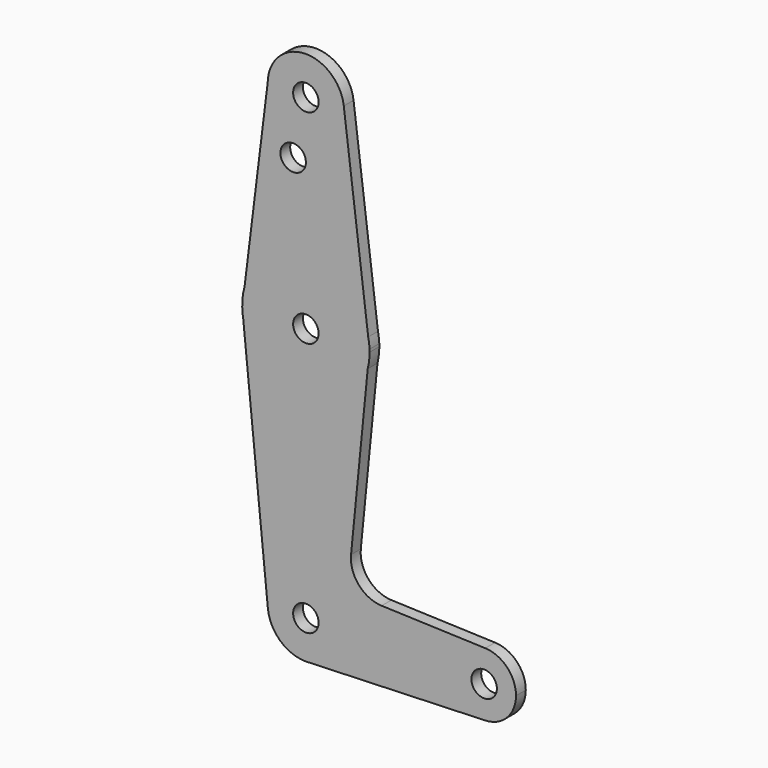
from build123d import *

# Parameters (mm, degrees)
F0_R     = 3.175
F1_DEPTH = 3.048


with BuildPart() as f1:
    # F0 (on Front) → F1 (new body)
    with BuildSketch(Plane.XZ):
        with BuildLine():
            ThreePointArc((-9.5242230545, 69.5799313828), (-0.0608292928, 59.9334695165), (9.525, 69.4582752781))
            ThreePointArc((9.525, 69.4582752781), (9.5066199095, 70.0497166507), (9.4515505728, 70.638875452))
            ThreePointArc((9.4515505728, 70.638875452), (-0.5307173992, 78.9684784327), (-9.5242230545, 69.5799313828))
        make_face()
        with Locations((0, 69.4582752781)):
            Circle(F0_R, mode=Mode.SUBTRACT)
        with BuildLine():
            ThreePointArc((9.4515505728, 70.638875452), (9.5066199095, 70.0497166507), (9.525, 69.4582752781))
            ThreePointArc((9.525, 69.4582752781), (-0.0608292928, 59.9334695165), (-9.5242230545, 69.5799313828))
            Line((-9.5242230545, 69.5799313828), (-15.2889743991, 22.9317851732))
            ThreePointArc((-15.2889743991, 22.9317851732), (0.5253452811, 34.5245803721), (15.5381761666, 21.9110750593))
            Line((15.5381761666, 21.9110750593), (9.4515505728, 70.638875452))
        make_face()
        with Locations((-3.175, 55.1834752781)):
            Circle(F0_R, mode=Mode.SUBTRACT)
        with BuildLine():
            Line((15.8608855037, 19.3275555179), (15.5381761666, 21.9110750593))
            ThreePointArc((15.5381761666, 21.9110750593), (0.5253452811, 34.5245803721), (-15.2889743991, 22.9317851732))
            Line((-15.2889743991, 22.9317851732), (-15.8693639685, 18.2352950952))
            Line((-15.8693639685, 18.2352950952), (-15.6397916735, 15.9356769951))
            ThreePointArc((-15.6397916735, 15.9356769951), (-0.528965614, 2.7920904696), (15.4237261455, 14.9000447385))
            Line((15.4237261455, 14.9000447385), (15.8608855037, 19.3275555179))
        make_face()
        with Locations((0, 18.6582752781)):
            Circle(F0_R, mode=Mode.SUBTRACT)
        with BuildLine():
            ThreePointArc((15.8608855037, 19.3275555179), (15.7525842879, 20.6259422346), (15.5381761666, 21.9110750593))
            Line((15.5381761666, 21.9110750593), (15.8608855037, 19.3275555179))
        make_face()
        with BuildLine():
            Line((-15.8693639685, 18.2352950952), (-15.2889743991, 22.9317851732))
            ThreePointArc((-15.2889743991, 22.9317851732), (-15.7551504982, 20.6052878049), (-15.8693639685, 18.2352950952))
        make_face()
        with BuildLine():
            ThreePointArc((15.875, 18.6582752781), (15.8714709837, 18.9929898051), (15.8608855037, 19.3275555179))
            Line((15.8608855037, 19.3275555179), (15.4237261455, 14.9000447385))
            ThreePointArc((15.4237261455, 14.9000447385), (15.7617777798, 16.7656616831), (15.875, 18.6582752781))
        make_face()
        with BuildLine():
            Line((-15.6397916735, 15.9356769951), (-15.8693639685, 18.2352950952))
            ThreePointArc((-15.8693639685, 18.2352950952), (-15.796480088, 17.081302916), (-15.6397916735, 15.9356769951))
        make_face()
        with BuildLine():
            Line((11.2606845245, -27.2628674969), (15.4237261455, 14.9000447385))
            ThreePointArc((15.4237261455, 14.9000447385), (-0.528965614, 2.7920904696), (-15.6397916735, 15.9356769951))
            Line((-15.6397916735, 15.9356769951), (-9.4778880528, -45.7879081391))
            ThreePointArc((-9.4778880528, -45.7879081391), (-0.4736777899, -35.3285099996), (9.525, -44.8417247219))
            ThreePointArc((9.525, -44.8417247219), (6.9705567315, -51.3330238101), (0.6773435479, -54.3426105078))
            Line((0.6773435479, -54.3426105078), (44.7324052746, -52.7741993364))
            ThreePointArc((44.7324052746, -52.7741993364), (36.5125, -44.8417247219), (44.7324052746, -36.9092501073))
            Line((44.7324052746, -36.9092501073), (18.8895552025, -35.9892147433))
            ThreePointArc((18.8895552025, -35.9892147433), (13.1870059413, -33.2766947707), (11.2606845245, -27.2628674969))
        make_face()
        with BuildLine():
            ThreePointArc((9.525, -44.8417247219), (-0.4736777899, -35.3285099996), (-9.4778880528, -45.7879081391))
            ThreePointArc((-9.4778880528, -45.7879081391), (-6.3919178636, -51.9035241402), (0, -54.3667247219))
            Line((0, -54.3667247219), (0.6773435479, -54.3426105078))
            ThreePointArc((0.6773435479, -54.3426105078), (6.9705567315, -51.3330238101), (9.525, -44.8417247219))
        make_face()
        with Locations((0, -44.8417247219)):
            Circle(F0_R, mode=Mode.SUBTRACT)
        with BuildLine():
            Line((0.6773435479, -54.3426105078), (0, -54.3667247219))
            ThreePointArc((0, -54.3667247219), (0.3388863295, -54.3606942594), (0.6773435479, -54.3426105078))
        make_face()
        with BuildLine():
            ThreePointArc((52.3875, -44.8417247219), (50.1616327839, -39.3298142371), (44.7324052746, -36.9092501073))
            ThreePointArc((44.7324052746, -36.9092501073), (36.5125, -44.8417247219), (44.7324052746, -52.7741993364))
            ThreePointArc((44.7324052746, -52.7741993364), (50.1616327839, -50.3536352066), (52.3875, -44.8417247219))
        make_face()
        with Locations((44.45, -44.8417247219)):
            Circle(F0_R, mode=Mode.SUBTRACT)
    extrude(amount=F1_DEPTH)


solid = f1.part
